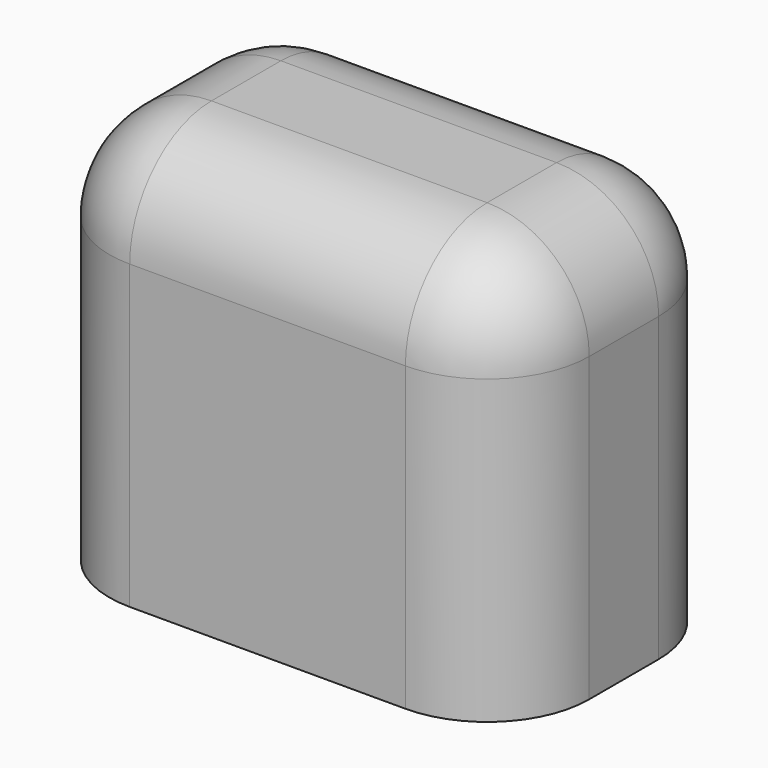
from build123d import *

# Parameters (mm, degrees)
F0_W     = 119.359527
F0_H     = 100.470527
F1_DEPTH = 72.39
F2_R     = 25.4
F3_R     = 25.4
F4_R     = 25.4
F5_R     = 25.4
F6_T     = -2.54


with BuildPart() as f1:
    # F0 (on Front) → F1 (new body)
    with BuildSketch(Plane.XZ):
        with Locations((-9.005385, 12.515958)):
            Rectangle(F0_W, F0_H)
    extrude(amount=F1_DEPTH)

    # F2
    f2_edges = [f1.edges().sort_by_distance(p)[0] for p in [
        (-9.005385, -72.39, 62.751222),
    ]]
    fillet(f2_edges, radius=F2_R)

    # F3
    f3_edges = [f1.edges().sort_by_distance(p)[0] for p in [
        (-9.005385, 0, 62.751222),
    ]]
    fillet(f3_edges, radius=F3_R)

    # F4
    f4_edges = [f1.edges().sort_by_distance(p)[0] for p in [
        (50.674379, -36.195, 62.751222),
    ]]
    fillet(f4_edges, radius=F4_R)

    # F5
    f5_edges = [f1.edges().sort_by_distance(p)[0] for p in [
        (-68.685148, -36.195, 62.751222),
    ]]
    fillet(f5_edges, radius=F5_R)

    # F6
    f6_openings = [f1.faces().sort_by_distance(p)[0] for p in [
        (-9.005385, -36.195, -37.719305),
    ]]
    offset(amount=F6_T, openings=f6_openings)


solid = f1.part
